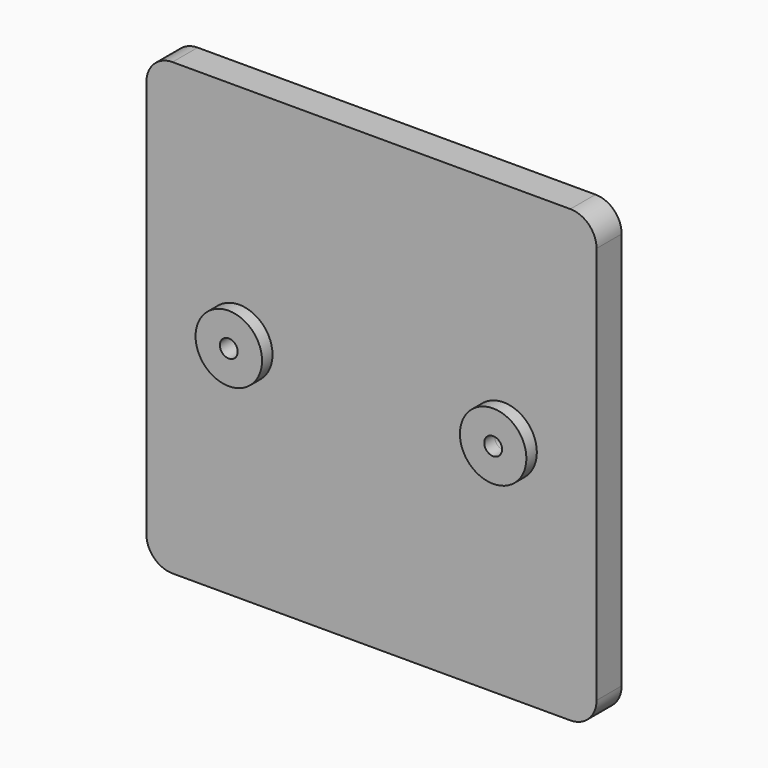
from build123d import *

# Parameters (mm, degrees)
F0_R     = 6.35
F0_R_2   = 1.7
F1_DEPTH = 6
F2_R     = 6.35
F2_R_2   = 1.7
F3_DEPTH = 2.5


with BuildPart() as f1:
    # F0 (on Front) → F1 (new body)
    with BuildSketch(Plane.XZ):
        with BuildLine():
            Line((38, 43), (-38, 43))
            ThreePointArc((-38, 43), (-41.535534, 41.535534), (-43, 38))
            Line((-43, 38), (-43, -38))
            ThreePointArc((-43, -38), (-41.535534, -41.535534), (-38, -43))
            Line((-38, -43), (38, -43))
            ThreePointArc((38, -43), (41.535534, -41.535534), (43, -38))
            Line((43, -38), (43, 38))
            ThreePointArc((43, 38), (41.535534, 41.535534), (38, 43))
        make_face()
        with Locations((-25.25, 0)):
            Circle(F0_R, mode=Mode.SUBTRACT)
        with BuildLine():
            ThreePointArc((31.6, 0), (25.25, -6.35), (18.9, 0))
            ThreePointArc((18.9, 0), (25.25, 6.35), (31.6, 0))
        make_face(mode=Mode.SUBTRACT)
        with Locations((-25.25, 0)):
            Circle(F0_R)
        with Locations((-25.25, 0)):
            Circle(F0_R_2, mode=Mode.SUBTRACT)
        with BuildLine():
            ThreePointArc((31.6, 0), (25.25, 6.35), (18.9, 0))
            ThreePointArc((18.9, 0), (25.25, -6.35), (31.6, 0))
        make_face()
        with BuildLine():
            ThreePointArc((26.95, 0), (25.25, -1.7), (23.55, 0))
            ThreePointArc((23.55, 0), (25.25, 1.7), (26.95, 0))
        make_face(mode=Mode.SUBTRACT)
    extrude(amount=F1_DEPTH)

    # F2 (on face) → F3 (join)
    with BuildSketch(Plane.XZ.offset(6)):
        with Locations((-25.25, 0)):
            Circle(F2_R)
        with Locations((-25.25, 0)):
            Circle(F2_R_2, mode=Mode.SUBTRACT)
        with Locations((25.25, 0)):
            Circle(F2_R)
        with Locations((25.25, 0)):
            Circle(F2_R_2, mode=Mode.SUBTRACT)
    extrude(amount=F3_DEPTH)


solid = f1.part
